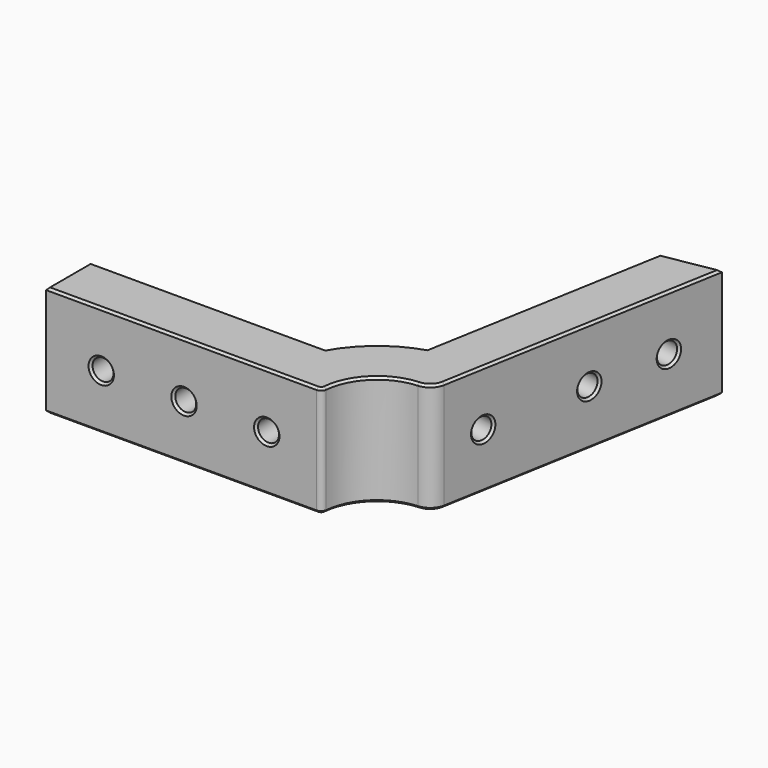
from build123d import *

# Parameters (mm, degrees)
PAD_DEPTH       = 20
SKETCH001_R     = 1.9
POCKET_DEPTH    = 10
SKETCH002_R     = 1.9
POCKET001_DEPTH = 70.2051198388
FILLET_R        = 3
FILLET001_R     = 1
CHAMFER_SIZE    = 0.4


with BuildPart() as part:
    # Sketch → Pad (new body)
    with BuildSketch(Plane.XY):
        with BuildLine():
            ThreePointArc((1.7364817767, 9.8480775301), (-6.4278760969, 7.6604444312), (-10, 0))
            Line((-10, 0), (-60, 0))
            Line((-60, 0), (-60, 10))
            Line((-60, 10), (-17.3205080757, 10))
            ThreePointArc((-6.1884133406, 19.0185052075), (-12.5897063343, 15.5402475661), (-17.3205080757, 10))
            Line((1.4390540182, 62.2760221691), (-6.1884133406, 19.0185052075))
            Line((11.2871315484, 64.0125039458), (1.4390540182, 62.2760221691))
            Line((1.7364817767, 9.8480775301), (11.2871315484, 64.0125039458))
        make_face()
    extrude(amount=PAD_DEPTH)

    # Sketch001 (on Face2 of Pad) → Pocket (cut)
    with BuildSketch(Plane.XZ):
        with Locations((-50, 10)):
            Circle(SKETCH001_R)
        with Locations((-35, 10)):
            Circle(SKETCH001_R)
        with Locations((-20, 10)):
            Circle(SKETCH001_R)
    extrude(amount=-POCKET_DEPTH, mode=Mode.SUBTRACT)

    # Sketch002 (on Face2 of Pocket) → Pocket001 (cut, through all)
    with BuildSketch(Plane(origin=(0, 0, 0), x_dir=(0.1736481777, 0.984807753, 0), z_dir=(0.984807753, -0.1736481777, 0))):
        with Locations((20, 10)):
            Circle(SKETCH002_R)
        with Locations((40, 10)):
            Circle(SKETCH002_R)
        with Locations((55, 10)):
            Circle(SKETCH002_R)
    extrude(amount=-POCKET001_DEPTH, mode=Mode.SUBTRACT)

    # Fillet
    fillet_edges = [part.edges().sort_by_distance(p)[0] for p in [
        (1.736482, 9.848078, 10),
    ]]
    fillet(fillet_edges, radius=FILLET_R)

    # Fillet001
    fillet001_edges = [part.edges().sort_by_distance(p)[0] for p in [
        (-10, 0, 10),
    ]]
    fillet(fillet001_edges, radius=FILLET001_R)

    # Chamfer
    chamfer_edges = [part.edges().sort_by_distance(p)[0] for p in [
        (-6.954518, 7.185728, 20),
        (-10.280251, 0.261451, 20),
        (1.236636, 10.736969, 20),
        (-35.477226, 0, 20),
        (6.741813, 38.234723, 20),
        (-60, 5, 20),
        (6.363093, 63.144263, 20),
        (-38.660254, 10, 20),
        (-2.37468, 40.647264, 20),
        (-12.589706, 15.540248, 20),
        (-6.954518, 7.185728, 0),
        (-10.280251, 0.261451, 0),
        (1.236636, 10.736969, 0),
        (-35.477226, 0, 0),
        (6.741813, 38.234723, 0),
        (-60, 5, 0),
        (6.363093, 63.144263, 0),
        (-38.660254, 10, 0),
        (-2.37468, 40.647264, 0),
        (-12.589706, 15.540248, 0),
        (-51.9, 0, 10),
        (-36.9, 0, 10),
        (-21.9, 0, 10),
        (3.143032, 17.82502, 10),
        (6.615996, 37.521175, 10),
        (9.220718, 52.293292, 10),
        (-0.033448, 53.925051, 10),
        (-2.63817, 39.152935, 10),
        (-6.111134, 19.456779, 10),
        (-21.9, 10, 10),
        (-36.9, 10, 10),
        (-51.9, 10, 10),
    ]]
    chamfer(chamfer_edges, length=CHAMFER_SIZE)


solid = part.part
